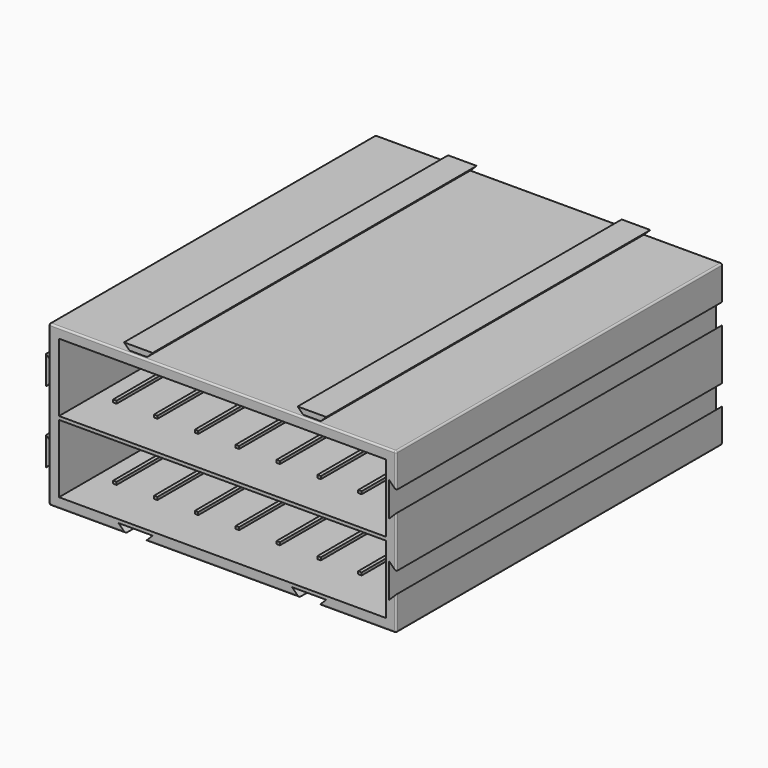
from build123d import *

# Parameters (mm, degrees)
EXTRUDE004_DEPTH                     = 120
EXTRUDE004_ONTO_SKETCH004_ROLL_ANGLE = 90
ARRAY005_X_COUNT                     = 2
ARRAY005_X_PITCH                     = 51
EXTRUDE001_DEPTH                     = 120
EXTRUDE001_ONTO_SKETCH001_ROLL_ANGLE = 90
ARRAY003_Z_COUNT                     = 2
ARRAY003_Z_PITCH                     = 21
EXTRUDE003_DEPTH                     = 119
EXTRUDE003_ONTO_SKETCH003_ROLL_ANGLE = 90
ARRAY_X_COUNT                        = 2
ARRAY_X_PITCH                        = 51
EXTRUDE002_DEPTH                     = 119
EXTRUDE002_ONTO_SKETCH002_ROLL_ANGLE = 90
ARRAY004_Z_COUNT                     = 2
ARRAY004_Z_PITCH                     = 21
BOX002_W                             = 96
BOX002_H                             = 118
BOX002_DEPTH                         = 1
BOX001_W                             = 96
BOX001_H                             = 118
BOX001_DEPTH                         = 41
BOX_W                                = 102
BOX_H                                = 120
BOX_DEPTH                            = 47
EXTRUDE_DEPTH                        = 0.8
ARRAY002_X_COUNT                     = 8
ARRAY002_X_PITCH                     = 12
ARRAY002_Z_COUNT                     = 2
ARRAY002_Z_PITCH                     = 21
FILLET_R                             = 0.5


with BuildPart() as bottomsideguidearray:
    # Sketch004 as drawn → Extrude004 (new)
    with BuildSketch(Plane.XY):
        Polygon((-6, 1), (4, 1), (2, -1), (-4, -1), align=None)
    extrude(amount=-EXTRUDE004_DEPTH)


with BuildPart() as bottomsideguidearray_1:
    # Extrude004 onto Sketch004 roll: moved
    add(bottomsideguidearray.part.rotate(Axis((0, 0, 0), (1, 0, 0)), EXTRUDE004_ONTO_SKETCH004_ROLL_ANGLE))


with BuildPart() as bottomsideguidearray_2:
    # Extrude004 onto Sketch004 placement: moved
    add(bottomsideguidearray_1.part)


with BuildPart() as bottomsideguidearray_3:
    # Extrude004 placement: moved
    add(bottomsideguidearray_2.part.moved(Location((25.5, 0, 0))))

    # Array005 X: BottomSideGuideArray ×2


with BuildPart() as bottomsideguidearray_4:
    add(bottomsideguidearray_3.part)
    with Locations(*[(i * ARRAY005_X_PITCH, 0, 0) for i in range(1, ARRAY005_X_COUNT)]):
        add(bottomsideguidearray_3.part)


with BuildPart() as guidegaps:
    # Sketch001 as drawn → Extrude001 (new)
    with BuildSketch(Plane.XY):
        Polygon((0, 0), (0, 10), (2, 8), (2, 2), align=None)
    extrude(amount=-EXTRUDE001_DEPTH)


with BuildPart() as guidegaps_1:
    # Extrude001 onto Sketch001 roll: moved
    add(guidegaps.part.rotate(Axis((0, 0, 0), (1, 0, 0)), EXTRUDE001_ONTO_SKETCH001_ROLL_ANGLE))


with BuildPart() as guidegaps_2:
    # Extrude001 onto Sketch001 placement: moved
    add(guidegaps_1.part.moved(Location((99, 0, 7))))

    # Array003 Z: GuideGaps ×2


with BuildPart() as guidegaps_3:
    add(guidegaps_2.part)
    with Locations(*[(0, 0, i * ARRAY003_Z_PITCH) for i in range(1, ARRAY003_Z_COUNT)]):
        add(guidegaps_2.part)

    # Fusion003: union BottomSideGuideArray
    add(bottomsideguidearray_4.part)


with BuildPart() as topsideguidearray:
    # Sketch003 as drawn → Extrude003 (new)
    with BuildSketch(Plane.XY):
        Polygon((-5.2, 47.6), (3.2, 47.6), (1.6, 46), (-3.6, 46), align=None)
    extrude(amount=-EXTRUDE003_DEPTH)


with BuildPart() as topsideguidearray_1:
    # Extrude003 onto Sketch003 roll: moved
    add(topsideguidearray.part.rotate(Axis((0, 0, 0), (1, 0, 0)), EXTRUDE003_ONTO_SKETCH003_ROLL_ANGLE))


with BuildPart() as topsideguidearray_2:
    # Extrude003 onto Sketch003 placement: moved
    add(topsideguidearray_1.part)


with BuildPart() as topsideguidearray_3:
    # Extrude003 placement: moved
    add(topsideguidearray_2.part.moved(Location((25.5, 1, 0))))

    # Array X: TopSideGuideArray ×2


with BuildPart() as topsideguidearray_4:
    add(topsideguidearray_3.part)
    with Locations(*[(i * ARRAY_X_PITCH, 0, 0) for i in range(1, ARRAY_X_COUNT)]):
        add(topsideguidearray_3.part)


with BuildPart() as guiderods:
    # Sketch002 as drawn → Extrude002 (new)
    with BuildSketch(Plane.XY):
        Polygon((0.4, 9.2), (0.4, 0.8), (2, 2.4), (2, 7.6), align=None)
    extrude(amount=-EXTRUDE002_DEPTH)


with BuildPart() as guiderods_1:
    # Extrude002 onto Sketch002 roll: moved
    add(guiderods.part.rotate(Axis((0, 0, 0), (1, 0, 0)), EXTRUDE002_ONTO_SKETCH002_ROLL_ANGLE))


with BuildPart() as guiderods_2:
    # Extrude002 onto Sketch002 placement: moved
    add(guiderods_1.part.moved(Location((-1, 0, 7))))


with BuildPart() as guiderods_3:
    # Extrude002 placement: moved
    add(guiderods_2.part.moved(Location((-2, 1, 0))))

    # Array004 Z: GuideRods ×2


with BuildPart() as guiderods_4:
    add(guiderods_3.part)
    with Locations(*[(0, 0, i * ARRAY004_Z_PITCH) for i in range(1, ARRAY004_Z_COUNT)]):
        add(guiderods_3.part)

    # Fusion002: union TopSideGuideArray
    add(topsideguidearray_4.part)


with BuildPart() as separator:
    # Box002 → Box002 (new body)
    with BuildSketch(Plane(origin=(2, 0, 22), x_dir=(1, 0, 0), z_dir=(0, 0, 1))):
        with Locations((48, 59)):
            Rectangle(BOX002_W, BOX002_H)
    extrude(amount=BOX002_DEPTH)


with BuildPart() as inner_box:
    # Box001 → Box001 (new body)
    with BuildSketch(Plane(origin=(2, 0, 2), x_dir=(1, 0, 0), z_dir=(0, 0, 1))):
        with Locations((48, 59)):
            Rectangle(BOX001_W, BOX001_H)
    extrude(amount=BOX001_DEPTH)


with BuildPart() as cabinet_base:
    # Box → Box (new body)
    with BuildSketch(Plane(origin=(-1, 0, -1), x_dir=(1, 0, 0), z_dir=(0, 0, 1))):
        with Locations((51, 60)):
            Rectangle(BOX_W, BOX_H)
    extrude(amount=BOX_DEPTH)

    # Cut: cut Inner Box
    add(inner_box.part, mode=Mode.SUBTRACT)

    # Fusion: union Separator
    add(separator.part)


with BuildPart() as final_cabinet:
    # Sketch → Extrude (new body)
    with BuildSketch(Plane.XY):
        Polygon((0.5, 0), (0.25, 104), (0.25, 105), (1.75, 105), (1.75, 104), (1.5, 0), align=None)
    extrude(amount=EXTRUDE_DEPTH)

    # Array002 X: Final Cabinet ×8


with BuildPart() as final_cabinet_1:
    add(final_cabinet.part)
    with Locations(*[(i * ARRAY002_X_PITCH, 0, 0) for i in range(1, ARRAY002_X_COUNT)]):
        add(final_cabinet.part)

    # Array002 Z: Final Cabinet ×2


with BuildPart() as final_cabinet_2:
    add(final_cabinet_1.part)
    with Locations(*[(0, 0, i * ARRAY002_Z_PITCH) for i in range(1, ARRAY002_Z_COUNT)]):
        add(final_cabinet_1.part)


with BuildPart() as final_cabinet_3:
    # Array002 placement: moved
    add(final_cabinet_2.part.moved(Location((7, 13, 2))))

    # Fusion001: union Cabinet Base
    add(cabinet_base.part)

    # Fillet
    fillet_edges = [final_cabinet_3.edges().sort_by_distance(p)[0] for p in [
        (-1, 0, 22.5),
        (-1, 60, 46),
        (-1, 120, 22.5),
        (-1, 60, -1),
        (50, 0, -1),
        (101, 0, 22.5),
        (50, 0, 46),
        (50, 120, 46),
        (101, 60, 46),
        (50, 120, -1),
        (101, 120, 22.5),
        (101, 60, -1),
    ]]
    fillet(fillet_edges, radius=FILLET_R)

    # Fusion004: union GuideRods
    add(guiderods_4.part)

    # Cut001: cut GuideGaps
    add(guidegaps_3.part, mode=Mode.SUBTRACT)


solid = final_cabinet_3.part
